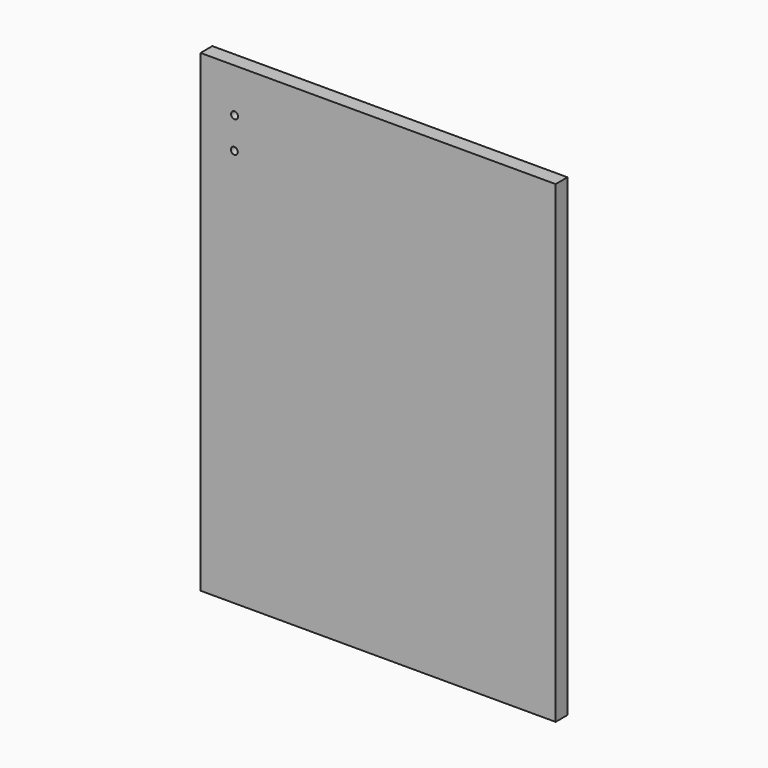
from build123d import *

# Parameters (mm, degrees)
F0_W     = 152.4
F0_H     = 203.2
F1_DEPTH = 6.35
F4_DEPTH = 25
F5_DEPTH = 25


with BuildPart() as f1:
    # F0 (on Front) → F1 (new body)
    with BuildSketch(Plane.XZ):
        Rectangle(F0_W, F0_H)
    extrude(amount=F1_DEPTH)

    # F3 (on face) → F4 (cut)
    with BuildSketch(Plane.XZ.offset(6.35)):
        with BuildLine():
            Line((-61.5444034338, 82.55), (-61.5444034338, 84.2812365605))
            ThreePointArc((-61.5444034338, 84.2812365605), (-63.0868195891, 82.7818363905), (-61.5444034338, 81.2824362205))
            Line((-61.5444034338, 81.2824362205), (-61.5444034338, 82.55))
        make_face()
        with BuildLine():
            ThreePointArc((-61.5444034338, 81.2824362205), (-60.5112675837, 81.736280135), (-60.0868195891, 82.7818363905))
            ThreePointArc((-60.0868195891, 82.7818363905), (-60.5112675837, 83.827392646), (-61.5444034338, 84.2812365605))
            Line((-61.5444034338, 84.2812365605), (-61.5444034338, 82.55))
            Line((-61.5444034338, 82.55), (-61.5444034338, 81.2824362205))
        make_face()
    extrude(amount=-F4_DEPTH, mode=Mode.SUBTRACT)

    # F3 (on face) → F5 (cut)
    with BuildSketch(Plane.XZ.offset(6.35)):
        with BuildLine():
            ThreePointArc((-60.2067813873, 69.3278759718), (-60.5901868033, 70.329482948), (-61.5444034338, 70.8190612052))
            ThreePointArc((-61.5444034338, 70.8190612052), (-62.8233759714, 68.3262689956), (-60.2067813873, 69.3278759718))
        make_face()
    extrude(amount=-F5_DEPTH, mode=Mode.SUBTRACT)


solid = f1.part
